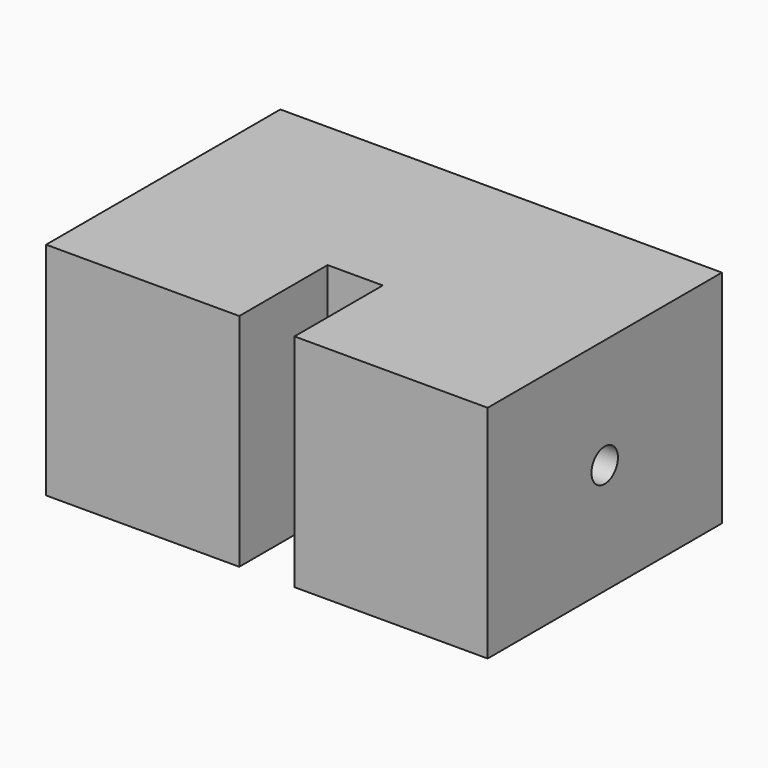
from build123d import *

# Parameters (mm, degrees)
F0_W     = 5
F0_H     = 9.9937266076
F1_DEPTH = 20
F2_DEPTH = 158.6
F5_D     = 3
F5_DEPTH = 5
F5_TIP   = 0.9012909285
F6_D     = 3
F6_DEPTH = 5
F6_TIP   = 0.9012909285


with BuildPart() as f1:
    # F0 (on Top) → F1 (new body)
    with BuildSketch(Plane.XY):
        Polygon((17.5, 18.631580086), (-22.5, 18.631580086), (-22.5, -7.8947371674), (-5, -7.8947371674), (-5, 2.0989894401), (-5, 2.1052628326), (0, 2.1052628326), (0, 2.0989894401), (0, -7.8947371674), (17.5, -7.8947371674), align=None)
        with Locations((-2.5, -2.8978738637)):
            Rectangle(F0_W, F0_H)
    extrude(amount=F1_DEPTH)

    # F0 (on Top) → F2 (cut)
    with BuildSketch(Plane.XY):
        with Locations((-2.5, -2.8978738637)):
            Rectangle(F0_W, F0_H)
    extrude(amount=F2_DEPTH, mode=Mode.SUBTRACT)

    # F5
    with Locations(Plane(origin=(-22.5, 0, 0), x_dir=(0, -1, 0), z_dir=(-1, 0, 0))):
        with Locations((-5.3684214593, 10)):
            Hole(F5_D / 2, depth=F5_DEPTH)
            with Locations((0, 0, -(F5_DEPTH + F5_TIP / 2))):  # 118° drill point
                Cone(0, F5_D / 2, F5_TIP, mode=Mode.SUBTRACT)

    # F6
    with Locations(Plane.YZ.offset(17.5)):
        with Locations((5.357359536, 10.0329257548)):
            Hole(F6_D / 2, depth=F6_DEPTH)
            with Locations((0, 0, -(F6_DEPTH + F6_TIP / 2))):  # 118° drill point
                Cone(0, F6_D / 2, F6_TIP, mode=Mode.SUBTRACT)


solid = f1.part
